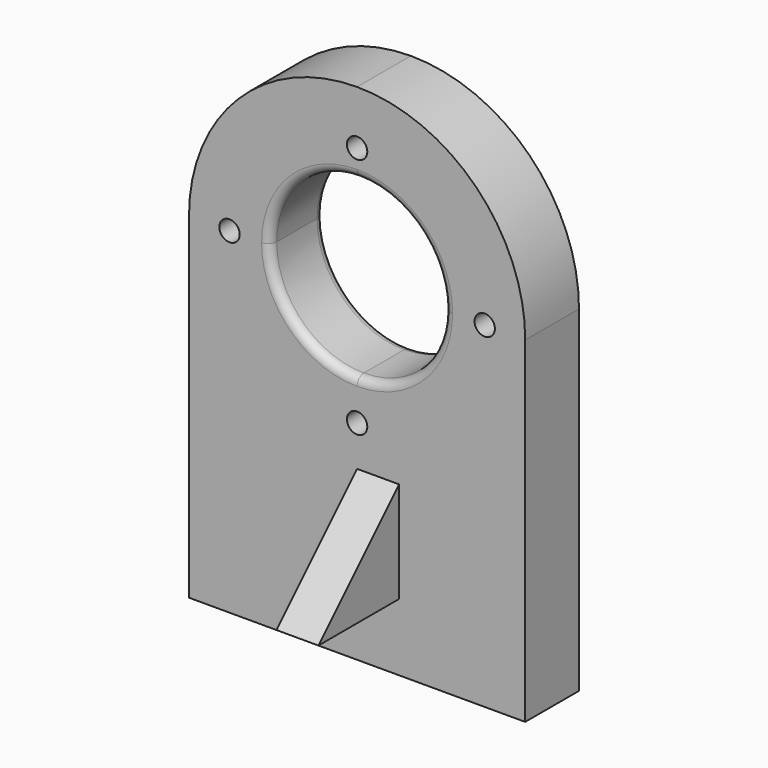
from build123d import *

# Parameters (mm, degrees)
F1_DEPTH = 40
F2_D     = 12.1
F3_R     = 5
F4_R     = 5
F6_DEPTH = 25


with BuildPart() as f1:
    # F0 (on Front) → F1 (new body)
    with BuildSketch(Plane.XZ):
        with BuildLine():
            Line((-100, 0), (0, 0))
            Line((0, 0), (0, 100))
            ThreePointArc((0, 100), (-70.7106781187, 129.2893218813), (-100, 200))
            Line((-100, 200), (-100, 0))
        make_face()
        with BuildLine():
            Line((0, 100), (0, 0))
            Line((0, 0), (100, 0))
            Line((100, 0), (100, 200))
            ThreePointArc((100, 200), (70.7106781187, 129.2893218813), (0, 100))
        make_face()
        with BuildLine():
            ThreePointArc((-100, 200), (-70.7106781187, 129.2893218813), (0, 100))
            Line((0, 100), (0, 148.1840150042))
            ThreePointArc((0, 148.1840150042), (-36.6394343644, 163.3605656356), (-51.8159849958, 200))
            Line((-51.8159849958, 200), (-100, 200))
        make_face()
        with BuildLine():
            Line((0, 148.1840150042), (0, 100))
            ThreePointArc((0, 100), (70.7106781187, 129.2893218813), (100, 200))
            Line((100, 200), (51.8159849958, 200))
            ThreePointArc((51.8159849958, 200), (36.6394343644, 163.3605656356), (0, 148.1840150042))
        make_face()
        with BuildLine():
            ThreePointArc((0, 300), (-70.7106781187, 270.7106781187), (-100, 200))
            Line((-100, 200), (-51.8159849958, 200))
            ThreePointArc((-51.8159849958, 200), (-36.6394343644, 236.6394343644), (0, 251.8159849958))
            Line((0, 251.8159849958), (0, 300))
        make_face()
        with BuildLine():
            Line((51.8159849958, 200), (100, 200))
            ThreePointArc((100, 200), (70.7106781187, 270.7106781187), (0, 300))
            Line((0, 300), (0, 251.8159849958))
            ThreePointArc((0, 251.8159849958), (36.6394343644, 236.6394343644), (51.8159849958, 200))
        make_face()
    extrude(amount=F1_DEPTH)

    # F2 (through all)
    with Locations(Plane(origin=(0, 0, 0), x_dir=(1, 0, 0), z_dir=(0, 1, 0))):
        with Locations((-75.9079924979, -200), (0, -267.9978298545), (75.9079924979, -200), (0, -123.9978298545)):
            Hole(F2_D / 2)

    # F3
    f3_edges = [f1.edges().sort_by_distance(p)[0] for p in [
        (0, -40, 148.184015),
    ]]
    fillet(f3_edges, radius=F3_R)

    # F4
    f4_edges = [f1.edges().sort_by_distance(p)[0] for p in [
        (0, 0, 148.184015),
    ]]
    fillet(f4_edges, radius=F4_R)

    # F5 (on Right) → F6 (join)
    with BuildSketch(Plane.YZ):
        Polygon((-100, 40), (-40, 40), (-40, 100), align=None)
    extrude(amount=F6_DEPTH)


solid = f1.part
